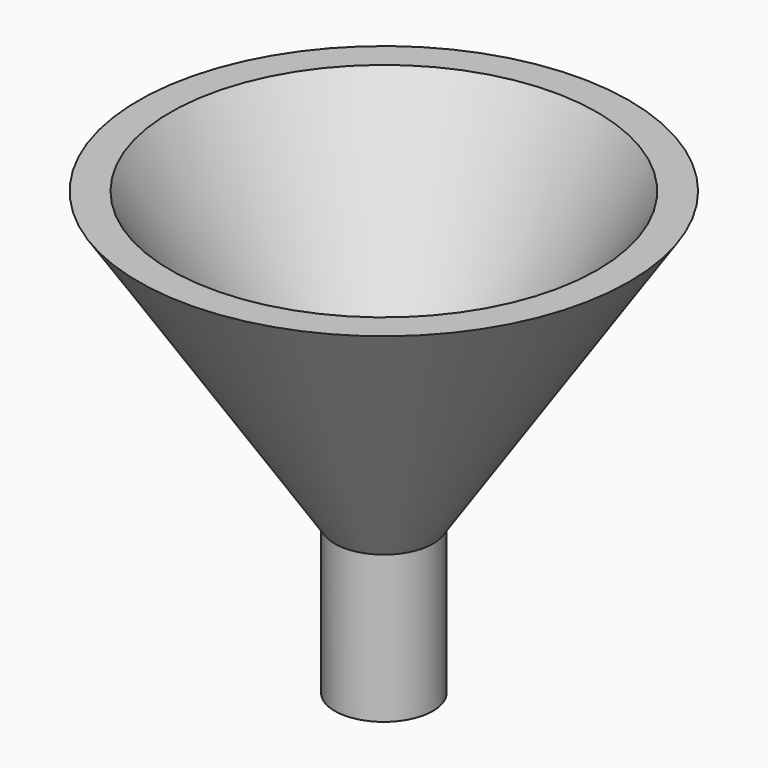
from build123d import *

# Parameters (mm, degrees)
CYLINDER001_R     = 3
CYLINDER001_DEPTH = 23
CYLINDER_R        = 5
CYLINDER_DEPTH    = 15


with BuildPart() as cone001:
    # Cone001 → Cone001 (revolve)
    with BuildSketch(Plane.XZ):
        Polygon((0, 0), (3, 0), (23, 32), (0, 32), align=None)
    revolve(axis=Axis((0, 0, 0), (0, 0, 1)))


with BuildPart() as cut:
    # Cone → Cone (revolve)
    with BuildSketch(Plane.XZ):
        Polygon((0, 0), (5, 0), (25, 30), (0, 30), align=None)
    revolve(axis=Axis((0, 0, 0), (0, 0, 1)))

    # Cut: cut Cone001
    add(cone001.part, mode=Mode.SUBTRACT)


with BuildPart() as cylinder001:
    # Cylinder001 → Cylinder001 (new body)
    with BuildSketch(Plane.XY.offset(-19)):
        Circle(CYLINDER001_R)
    extrude(amount=CYLINDER001_DEPTH)


with BuildPart() as cut001:
    # Cylinder → Cylinder (new body)
    with BuildSketch(Plane.XY.offset(-15)):
        Circle(CYLINDER_R)
    extrude(amount=CYLINDER_DEPTH)

    # Cut001: cut Cylinder001
    add(cylinder001.part, mode=Mode.SUBTRACT)


solid = Compound([cut.part, cut001.part])
